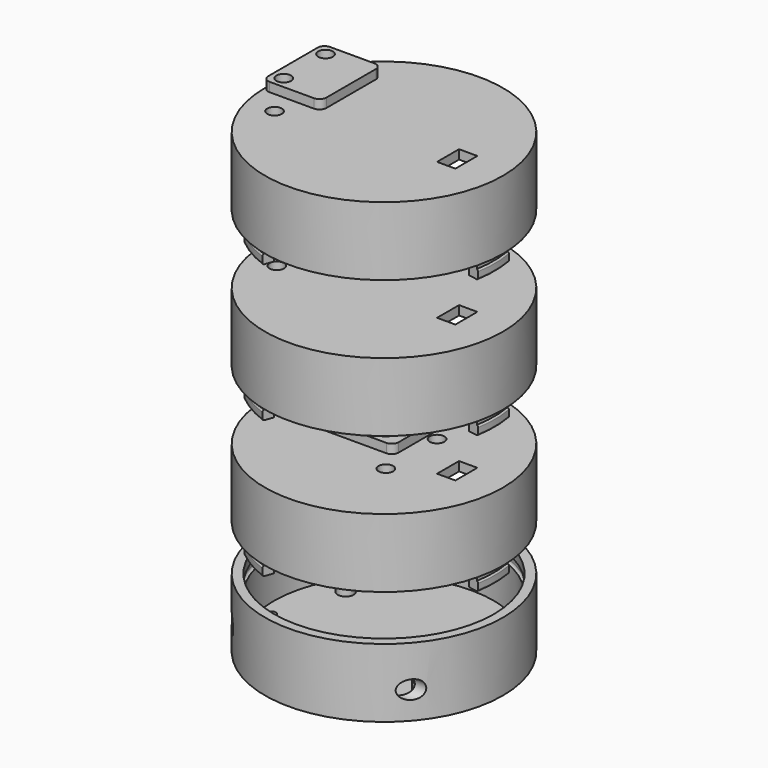
from build123d import *

# Parameters (mm, degrees)
CYLINDER001_R               = 1
CYLINDER001_DEPTH           = 6
CYLINDER_R                  = 1.75
CYLINDER_DEPTH              = 4
BOX_W                       = 38.1
BOX_H                       = 25.4
BOX_DEPTH                   = 2
FILLET_R                    = 2
CYLINDER015_R               = 2
CYLINDER015_DEPTH           = 60
CYLINDER016_R               = 2
CYLINDER016_DEPTH           = 60
CYLINDER006_R               = 24.5
CYLINDER006_DEPTH           = 2
FILLET001_R                 = 0.5
CYLINDER003_R               = 24
CYLINDER003_DEPTH           = 15
CYLINDER002_R               = 26
CYLINDER002_DEPTH           = 15
BOX004_W                    = 4
BOX004_H                    = 6
BOX004_DEPTH                = 10
CYLINDER010_R               = 1.6
CYLINDER010_DEPTH           = 10
CYLINDER011_R               = 1.6
CYLINDER011_DEPTH           = 10
BOX003_W                    = 30
BOX003_H                    = 20
BOX003_DEPTH                = 2
CYLINDER014_W               = 26
CYLINDER014_H               = 28
CYLINDER014_ANGLE           = 100
CYLINDER014_PLACEMENT_ANGLE = 110
CYLINDER013_W               = 26
CYLINDER013_H               = 28
CYLINDER013_ANGLE           = 100
CYLINDER013_PLACEMENT_ANGLE = 130
CYLINDER012_W               = 26
CYLINDER012_H               = 28
CYLINDER012_ANGLE           = 100
CYLINDER012_PLACEMENT_ANGLE = 10
CYLINDER009_R               = 22
CYLINDER009_DEPTH           = 17
CYLINDER007_R               = 24
CYLINDER007_DEPTH           = 17
CYLINDER008_R               = 24.3
CYLINDER008_DEPTH           = 2
FILLET002_R                 = 0.4
CYLINDER005_R               = 24
CYLINDER005_DEPTH           = 13
CYLINDER004_R               = 26
CYLINDER004_DEPTH           = 15
BOX005_W                    = 10
BOX005_H                    = 10
BOX005_DEPTH                = 10
FILLET003_R                 = 1.5
BOX007_W                    = 4
BOX007_H                    = 6
BOX007_DEPTH                = 10
CYLINDER018_R               = 1.6
CYLINDER018_DEPTH           = 10
CYLINDER017_R               = 1.6
CYLINDER017_DEPTH           = 10
BOX006_W                    = 17.78
BOX006_H                    = 15.24
BOX006_DEPTH                = 2
BOX008_W                    = 12.7
BOX008_H                    = 15.24
BOX008_DEPTH                = 2
FILLET004_R                 = 1.5
BOX010_W                    = 4
BOX010_H                    = 6
BOX010_DEPTH                = 10
CYLINDER020_R               = 1.6
CYLINDER020_DEPTH           = 10
CYLINDER019_R               = 1.6
CYLINDER019_DEPTH           = 10
BOX009_W                    = 17.78
BOX009_H                    = 16.51
BOX009_DEPTH                = 2
BOX011_W                    = 12.7
BOX011_H                    = 16.51
BOX011_DEPTH                = 2
FILLET005_R                 = 1.5


with BuildPart() as mountpiecelowerleft:
    # Cylinder001 → Cylinder001 (new body)
    with BuildSketch(Plane(origin=(2.54, 2.54, 0), x_dir=(1, 0, 0), z_dir=(0, 0, 1))):
        Circle(CYLINDER001_R)
    extrude(amount=CYLINDER001_DEPTH)


with BuildPart() as distancepiecelowerleft:
    # Cylinder → Cylinder (new body)
    with BuildSketch(Plane(origin=(2.54, 2.54, 0), x_dir=(1, 0, 0), z_dir=(0, 0, 1))):
        Circle(CYLINDER_R)
    extrude(amount=CYLINDER_DEPTH)


with BuildPart() as upperrightmount:
    # Fusion003 base: copy of DistancePieceLowerLeft
    add(distancepiecelowerleft.part)

    # Fusion003: union MountPieceLowerLeft
    add(mountpiecelowerleft.part)


with BuildPart() as upperrightmount_1:
    # Fusion003 placement: moved
    add(upperrightmount.part.moved(Location((33.02, 20.32, 0))))


with BuildPart() as fillet_body:
    # Box → Box (new body)
    with BuildSketch(Plane.XY):
        with Locations((19.05, 12.7)):
            Rectangle(BOX_W, BOX_H)
    extrude(amount=BOX_DEPTH)

    # Fillet
    fillet_edges = [fillet_body.edges().sort_by_distance(p)[0] for p in [
        (0, 0, 1),
        (0, 25.4, 1),
        (38.1, 0, 1),
        (38.1, 25.4, 1),
    ]]
    fillet(fillet_edges, radius=FILLET_R)


with BuildPart() as lowerrightmount:
    # Fusion001 base: copy of DistancePieceLowerLeft
    add(distancepiecelowerleft.part)

    # Fusion001: union MountPieceLowerLeft
    add(mountpiecelowerleft.part)


with BuildPart() as lowerrightmount_1:
    # Fusion001 placement: moved
    add(lowerrightmount.part.moved(Location((33.02, 0, 0))))


with BuildPart() as lowerleftmount:
    # Fusion base: copy of DistancePieceLowerLeft
    add(distancepiecelowerleft.part)

    # Fusion: union MountPieceLowerLeft
    add(mountpiecelowerleft.part)


with BuildPart() as esp8266_bracket:
    # Fusion002 base: copy of DistancePieceLowerLeft
    add(distancepiecelowerleft.part)

    # Fusion002: union MountPieceLowerLeft
    add(mountpiecelowerleft.part)


with BuildPart() as esp8266_bracket_1:
    # Fusion002 placement: moved
    add(esp8266_bracket.part.moved(Location((0, 20.32, 0))))

    # Fusion004: union UpperRightMount, Fillet body, LowerRightMount, LowerLeftMount
    add(upperrightmount_1.part)
    add(fillet_body.part)
    add(lowerrightmount_1.part)
    add(lowerleftmount.part)


with BuildPart() as esp8266_bracket_2:
    # Fusion004 placement: moved
    add(esp8266_bracket_1.part.moved(Location((-19.05, -12.7, 0))))


with BuildPart() as lefthole:
    # Cylinder015 → Cylinder015 (new body)
    with BuildSketch(Plane(origin=(-30, -17, 6), x_dir=(0, 0, -1), z_dir=(1, 0, 0))):
        Circle(CYLINDER015_R)
    extrude(amount=CYLINDER015_DEPTH)


with BuildPart() as righthole:
    # Cylinder016 → Cylinder016 (new body)
    with BuildSketch(Plane(origin=(-30, 18, 6), x_dir=(0, 0, -1), z_dir=(1, 0, 0))):
        Circle(CYLINDER016_R)
    extrude(amount=CYLINDER016_DEPTH)


with BuildPart() as lowerhousingnotchfillet:
    # Cylinder006 → Cylinder006 (new body)
    with BuildSketch(Plane.XY.offset(11)):
        Circle(CYLINDER006_R)
    extrude(amount=CYLINDER006_DEPTH)

    # Fillet001
    fillet001_edges = [lowerhousingnotchfillet.edges().sort_by_distance(p)[0] for p in [
        (-24.5, 0, 13),
        (-24.5, 0, 11),
    ]]
    fillet(fillet001_edges, radius=FILLET001_R)


with BuildPart() as lowerhousinginner:
    # Cylinder003 → Cylinder003 (new body)
    with BuildSketch(Plane.XY.offset(2)):
        Circle(CYLINDER003_R)
    extrude(amount=CYLINDER003_DEPTH)


with BuildPart() as obj1:
    # Cylinder002 → Cylinder002 (new body)
    with BuildSketch(Plane.XY):
        Circle(CYLINDER002_R)
    extrude(amount=CYLINDER002_DEPTH)

    # Cut: cut LowerHousingInner
    add(lowerhousinginner.part, mode=Mode.SUBTRACT)

    # Cut004: cut LowerHousingNotchFillet
    add(lowerhousingnotchfillet.part, mode=Mode.SUBTRACT)

    # Cut010: cut RightHole
    add(righthole.part, mode=Mode.SUBTRACT)

    # Cut011: cut LeftHole
    add(lefthole.part, mode=Mode.SUBTRACT)

    # Fusion009: union ESP8266_bracket
    add(esp8266_bracket_2.part)


with BuildPart() as obj2:
    # Box004 → Box004 (new body)
    with BuildSketch(Plane(origin=(14, -3, -8), x_dir=(1, 0, 0), z_dir=(0, 0, 1))):
        with Locations((2, 3)):
            Rectangle(BOX004_W, BOX004_H)
    extrude(amount=BOX004_DEPTH)


with BuildPart() as obj3:
    # Cylinder010 → Cylinder010 (new body)
    with BuildSketch(Plane(origin=(6, -7, -8), x_dir=(1, 0, 0), z_dir=(0, 0, 1))):
        Circle(CYLINDER010_R)
    extrude(amount=CYLINDER010_DEPTH)


with BuildPart() as obj4:
    # Cylinder011 → Cylinder011 (new body)
    with BuildSketch(Plane(origin=(6, 7, -8), x_dir=(1, 0, 0), z_dir=(0, 0, 1))):
        Circle(CYLINDER011_R)
    extrude(amount=CYLINDER011_DEPTH)


with BuildPart() as obj5:
    # Box003 → Box003 (new body)
    with BuildSketch(Plane(origin=(-20, -10, 0), x_dir=(1, 0, 0), z_dir=(0, 0, 1))):
        with Locations((15, 10)):
            Rectangle(BOX003_W, BOX003_H)
    extrude(amount=BOX003_DEPTH)


with BuildPart() as obj6:
    # Fusion011 base: copy of obj5
    add(obj5.part)

    # Fusion011: union obj3, obj4
    add(obj3.part)
    add(obj4.part)

    # Fusion012: union obj2
    add(obj2.part)


with BuildPart() as obj6_1:
    # Fusion012 placement: moved
    add(obj6.part.moved(Location((0, 0, 30))))


with BuildPart() as obj7:
    # Cylinder014 → Cylinder014 (revolve)
    with BuildSketch(Plane.XZ):
        with Locations((13, 14)):
            Rectangle(CYLINDER014_W, CYLINDER014_H)
    revolve(axis=Axis((0, 0, 0), (0, 0, 1)), revolution_arc=CYLINDER014_ANGLE)


with BuildPart() as obj7_1:
    # Cylinder014 placement: moved
    add(obj7.part.rotate(Axis((0, 0, 0), (0, 0, -1)), CYLINDER014_PLACEMENT_ANGLE))


with BuildPart() as obj8:
    # Cylinder013 → Cylinder013 (revolve)
    with BuildSketch(Plane.XZ):
        with Locations((13, 14)):
            Rectangle(CYLINDER013_W, CYLINDER013_H)
    revolve(axis=Axis((0, 0, 0), (0, 0, 1)), revolution_arc=CYLINDER013_ANGLE)


with BuildPart() as obj8_1:
    # Cylinder013 placement: moved
    add(obj8.part.rotate(Axis((0, 0, 0), (0, 0, 1)), CYLINDER013_PLACEMENT_ANGLE))


with BuildPart() as obj9:
    # Cylinder012 → Cylinder012 (revolve)
    with BuildSketch(Plane.XZ):
        with Locations((13, 14)):
            Rectangle(CYLINDER012_W, CYLINDER012_H)
    revolve(axis=Axis((0, 0, 0), (0, 0, 1)), revolution_arc=CYLINDER012_ANGLE)


with BuildPart() as obj9_1:
    # Cylinder012 placement: moved
    add(obj9.part.rotate(Axis((0, 0, 0), (0, 0, 1)), CYLINDER012_PLACEMENT_ANGLE))


with BuildPart() as obj10:
    # Cylinder009 → Cylinder009 (new body)
    with BuildSketch(Plane.XY.offset(11)):
        Circle(CYLINDER009_R)
    extrude(amount=CYLINDER009_DEPTH)


with BuildPart() as obj11:
    # Cylinder007 → Cylinder007 (new body)
    with BuildSketch(Plane.XY.offset(11)):
        Circle(CYLINDER007_R)
    extrude(amount=CYLINDER007_DEPTH)


with BuildPart() as obj12:
    # Cylinder008 → Cylinder008 (new body)
    with BuildSketch(Plane.XY.offset(11)):
        Circle(CYLINDER008_R)
    extrude(amount=CYLINDER008_DEPTH)

    # Fillet002
    fillet002_edges = [obj12.edges().sort_by_distance(p)[0] for p in [
        (-24.3, 0, 13),
        (-24.3, 0, 11),
    ]]
    fillet(fillet002_edges, radius=FILLET002_R)

    # Fusion005: union obj11
    add(obj11.part)

    # Cut005: cut obj10
    add(obj10.part, mode=Mode.SUBTRACT)

    # Cut006: cut obj9
    add(obj9_1.part, mode=Mode.SUBTRACT)

    # Cut007: cut obj8
    add(obj8_1.part, mode=Mode.SUBTRACT)

    # Cut008: cut obj7
    add(obj7_1.part, mode=Mode.SUBTRACT)


with BuildPart() as upperhousinginner:
    # Cylinder005 → Cylinder005 (new body)
    with BuildSketch(Plane.XY.offset(15)):
        Circle(CYLINDER005_R)
    extrude(amount=CYLINDER005_DEPTH)


with BuildPart() as obj13:
    # Cylinder004 → Cylinder004 (new body)
    with BuildSketch(Plane.XY.offset(15)):
        Circle(CYLINDER004_R)
    extrude(amount=CYLINDER004_DEPTH)

    # Cut002: cut UpperHousingInner
    add(upperhousinginner.part, mode=Mode.SUBTRACT)

    # Fusion008: union obj12
    add(obj12.part)


with BuildPart() as obj14:
    # Cut012 base: copy of obj13
    add(obj13.part)

    # Cut012: cut obj6
    add(obj6_1.part, mode=Mode.SUBTRACT)


with BuildPart() as obj14_1:
    # Cut012 placement: moved
    add(obj14.part.moved(Location((0, 0, 10))))


with BuildPart() as obj15:
    # Box005 → Box005 (new body)
    with BuildSketch(Plane(origin=(-5.5, -5, 0), x_dir=(1, 0, 0), z_dir=(0, 0, 1))):
        with Locations((5, 5)):
            Rectangle(BOX005_W, BOX005_H)
    extrude(amount=BOX005_DEPTH)


with BuildPart() as obj16:
    # Cut013 base: copy of obj5
    add(obj5.part)

    # Cut013: cut obj3
    add(obj3.part, mode=Mode.SUBTRACT)

    # Cut014: cut obj4
    add(obj4.part, mode=Mode.SUBTRACT)

    # Fillet003
    fillet003_edges = [obj16.edges().sort_by_distance(p)[0] for p in [
        (-20, -10, 1),
        (-20, 10, 1),
        (10, -10, 1),
        (10, 10, 1),
    ]]
    fillet(fillet003_edges, radius=FILLET003_R)

    # Cut015: cut obj15
    add(obj15.part, mode=Mode.SUBTRACT)


with BuildPart() as obj16_1:
    # Cut015 placement: moved
    add(obj16.part.moved(Location((0, 0, 45))))


with BuildPart() as obj17:
    # Box007 → Box007 (new body)
    with BuildSketch(Plane(origin=(14, -3, -8), x_dir=(1, 0, 0), z_dir=(0, 0, 1))):
        with Locations((2, 3)):
            Rectangle(BOX007_W, BOX007_H)
    extrude(amount=BOX007_DEPTH)


with BuildPart() as obj18:
    # Cylinder018 → Cylinder018 (new body)
    with BuildSketch(Plane(origin=(-17.35, -5.08, -8), x_dir=(1, 0, 0), z_dir=(0, 0, 1))):
        Circle(CYLINDER018_R)
    extrude(amount=CYLINDER018_DEPTH)


with BuildPart() as obj19:
    # Cylinder017 → Cylinder017 (new body)
    with BuildSketch(Plane(origin=(-17.35, 5.08, -8), x_dir=(1, 0, 0), z_dir=(0, 0, 1))):
        Circle(CYLINDER017_R)
    extrude(amount=CYLINDER017_DEPTH)


with BuildPart() as obj20:
    # Box006 → Box006 (new body)
    with BuildSketch(Plane(origin=(-8.89, -7.62, 0), x_dir=(1, 0, 0), z_dir=(0, 0, 1))):
        with Locations((8.89, 7.62)):
            Rectangle(BOX006_W, BOX006_H)
    extrude(amount=BOX006_DEPTH)

    # Fusion013: union obj18, obj19
    add(obj18.part)
    add(obj19.part)


with BuildPart() as obj20_1:
    # Fusion013 placement: moved
    add(obj20.part.moved(Location((-2, 0, 0))))

    # Fusion014: union obj17
    add(obj17.part)


with BuildPart() as obj20_2:
    # Fusion014 placement: moved
    add(obj20_1.part.moved(Location((0, 0, 30))))


with BuildPart() as obj21:
    # Cut016 base: copy of obj13
    add(obj13.part)

    # Cut016: cut obj20
    add(obj20_2.part, mode=Mode.SUBTRACT)


with BuildPart() as obj21_1:
    # Cut016 placement: moved
    add(obj21.part.moved(Location((0, 0, 40))))


with BuildPart() as obj22:
    # Box008 → Box008 (new body)
    with BuildSketch(Plane(origin=(-19.89, -7.62, 0), x_dir=(1, 0, 0), z_dir=(0, 0, 1))):
        with Locations((6.35, 7.62)):
            Rectangle(BOX008_W, BOX008_H)
    extrude(amount=BOX008_DEPTH)

    # Cut017: cut obj18
    add(obj18.part, mode=Mode.SUBTRACT)

    # Cut018: cut obj19
    add(obj19.part, mode=Mode.SUBTRACT)

    # Fillet004
    fillet004_edges = [obj22.edges().sort_by_distance(p)[0] for p in [
        (-19.89, -7.62, 1),
        (-19.89, 7.62, 1),
        (-7.19, -7.62, 1),
        (-7.19, 7.62, 1),
    ]]
    fillet(fillet004_edges, radius=FILLET004_R)


with BuildPart() as obj22_1:
    # Fillet004 placement: moved
    add(obj22.part.moved(Location((0, 0, 75))))


with BuildPart() as obj23:
    # Box010 → Box010 (new body)
    with BuildSketch(Plane(origin=(14, -3, -8), x_dir=(1, 0, 0), z_dir=(0, 0, 1))):
        with Locations((2, 3)):
            Rectangle(BOX010_W, BOX010_H)
    extrude(amount=BOX010_DEPTH)


with BuildPart() as obj24:
    # Cylinder020 → Cylinder020 (new body)
    with BuildSketch(Plane(origin=(-17.35, -5.71, -8), x_dir=(1, 0, 0), z_dir=(0, 0, 1))):
        Circle(CYLINDER020_R)
    extrude(amount=CYLINDER020_DEPTH)


with BuildPart() as obj25:
    # Cylinder019 → Cylinder019 (new body)
    with BuildSketch(Plane(origin=(-17.35, 5.715, -8), x_dir=(1, 0, 0), z_dir=(0, 0, 1))):
        Circle(CYLINDER019_R)
    extrude(amount=CYLINDER019_DEPTH)


with BuildPart() as obj26:
    # Box009 → Box009 (new body)
    with BuildSketch(Plane(origin=(-8.89, -8.255, 0), x_dir=(1, 0, 0), z_dir=(0, 0, 1))):
        with Locations((8.89, 8.255)):
            Rectangle(BOX009_W, BOX009_H)
    extrude(amount=BOX009_DEPTH)

    # Fusion016: union obj24, obj25
    add(obj24.part)
    add(obj25.part)


with BuildPart() as obj26_1:
    # Fusion016 placement: moved
    add(obj26.part.moved(Location((-2, 0, 0))))

    # Fusion015: union obj23
    add(obj23.part)


with BuildPart() as obj26_2:
    # Fusion015 placement: moved
    add(obj26_1.part.moved(Location((0, 0, 30))))


with BuildPart() as obj27:
    # Cut019 base: copy of obj13
    add(obj13.part)

    # Cut019: cut obj26
    add(obj26_2.part, mode=Mode.SUBTRACT)


with BuildPart() as obj27_1:
    # Cut019 placement: moved
    add(obj27.part.moved(Location((0, 0, 70))))


with BuildPart() as obj28:
    # Box011 → Box011 (new body)
    with BuildSketch(Plane(origin=(-19.89, -8.26, 0), x_dir=(1, 0, 0), z_dir=(0, 0, 1))):
        with Locations((6.35, 8.255)):
            Rectangle(BOX011_W, BOX011_H)
    extrude(amount=BOX011_DEPTH)

    # Cut020: cut obj24
    add(obj24.part, mode=Mode.SUBTRACT)

    # Cut021: cut obj25
    add(obj25.part, mode=Mode.SUBTRACT)

    # Fillet005
    fillet005_edges = [obj28.edges().sort_by_distance(p)[0] for p in [
        (-19.89, -8.26, 1),
        (-19.89, 8.25, 1),
        (-7.19, -8.26, 1),
        (-7.19, 8.25, 1),
    ]]
    fillet(fillet005_edges, radius=FILLET005_R)


with BuildPart() as obj28_1:
    # Fillet005 placement: moved
    add(obj28.part.moved(Location((0, 0, 105))))


solid = Compound([obj1.part, obj14_1.part, obj16_1.part, obj21_1.part, obj22_1.part, obj27_1.part, obj28_1.part])
